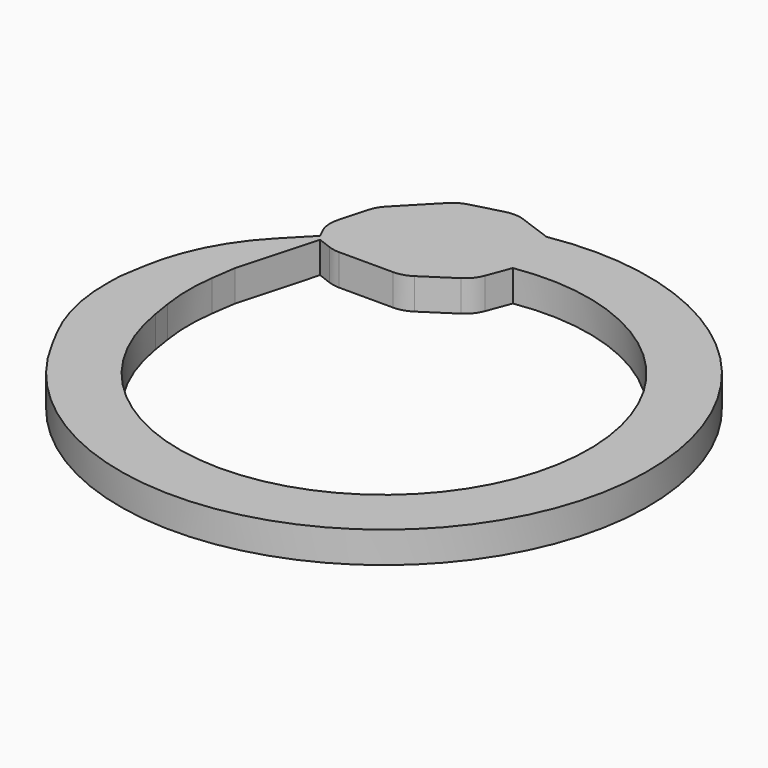
from build123d import *

# Parameters (mm, degrees)
F1_DEPTH = 5
F2_R     = 30
F4_DEPTH = 5.001
F5_R     = 30
F6_R     = 30
F7_R     = 5
F8_R     = 5
F9_R     = 5
F10_R    = 5


with BuildPart() as f1:
    # F0 (on Top) → F1 (new body)
    with BuildSketch(Plane.XY):
        with BuildLine():
            Line((-42.497829, -10.052536), (-37.314063, -19.814464))
            ThreePointArc((-37.314063, -19.814464), (37.956578, -18.553988), (-7.285654, 41.615761))
            Line((-7.285654, 41.615761), (-14.006471, 44.062227))
            Line((-14.006471, 44.062227), (-21.715557, 42.017373))
            Line((-21.715557, 42.017373), (-28.90164, 34.610507))
            Line((-28.90164, 34.610507), (-30.980071, 27.070666))
            Line((-30.980071, 27.070666), (-29.551746, 24.139418))
            Line((-29.551746, 24.139418), (-40.117525, 13.249019))
            Line((-40.117525, 13.249019), (-42.248696, 0))
            Line((-42.248696, 0), (-42.497829, -10.052536))
        make_face()
        with BuildLine():
            ThreePointArc((-5.28408, 32.384846), (26.613249, -19.194653), (-32.397266, -5.207392))
            Line((-32.397266, -5.207392), (-32.397266, 10.650216))
            Line((-32.397266, 10.650216), (-28.90164, 23.331157))
            Line((-28.90164, 23.331157), (-25.874414, 22.175578))
            Line((-25.874414, 22.175578), (-14.777807, 22.175578))
            Line((-14.777807, 22.175578), (-7.285654, 27.070666))
            Line((-7.285654, 27.070666), (-5.28408, 32.384846))
        make_face(mode=Mode.SUBTRACT)
    extrude(amount=F1_DEPTH)

    # F2
    f2_edges = [f1.edges().sort_by_distance(p)[0] for p in [
        (-42.497829, -10.052536, 2.5),
    ]]
    fillet(f2_edges, radius=F2_R)

    # F3 (on face) → F4 (cut, through all)
    with BuildSketch(Plane.XY.offset(5)):
        Polygon((-33.602018, 2.287856), (-32.397266, -5.207392), (-32.397266, 10.650216), align=None)
    extrude(amount=-F4_DEPTH, mode=Mode.SUBTRACT)

    # F5
    f5_edges = [f1.edges().sort_by_distance(p)[0] for p in [
        (-40.117525, 13.249019, 2.5),
    ]]
    fillet(f5_edges, radius=F5_R)

    # F6
    f6_edges = [f1.edges().sort_by_distance(p)[0] for p in [
        (-33.602018, 2.287856, 2.5),
    ]]
    fillet(f6_edges, radius=F6_R)

    # F7
    f7_edges = [f1.edges().sort_by_distance(p)[0] for p in [
        (-30.980071, 27.070666, 2.5),
    ]]
    fillet(f7_edges, radius=F7_R)

    # F8
    f8_edges = [f1.edges().sort_by_distance(p)[0] for p in [
        (-25.874414, 22.175578, 2.5),
    ]]
    fillet(f8_edges, radius=F8_R)

    # F9
    f9_edges = [f1.edges().sort_by_distance(p)[0] for p in [
        (-28.90164, 34.610507, 2.5),
        (-21.715557, 42.017373, 2.5),
        (-14.006471, 44.062227, 2.5),
    ]]
    fillet(f9_edges, radius=F9_R)

    # F10
    f10_edges = [f1.edges().sort_by_distance(p)[0] for p in [
        (-14.777807, 22.175578, 2.5),
        (-7.285654, 27.070666, 2.5),
    ]]
    fillet(f10_edges, radius=F10_R)


solid = f1.part
